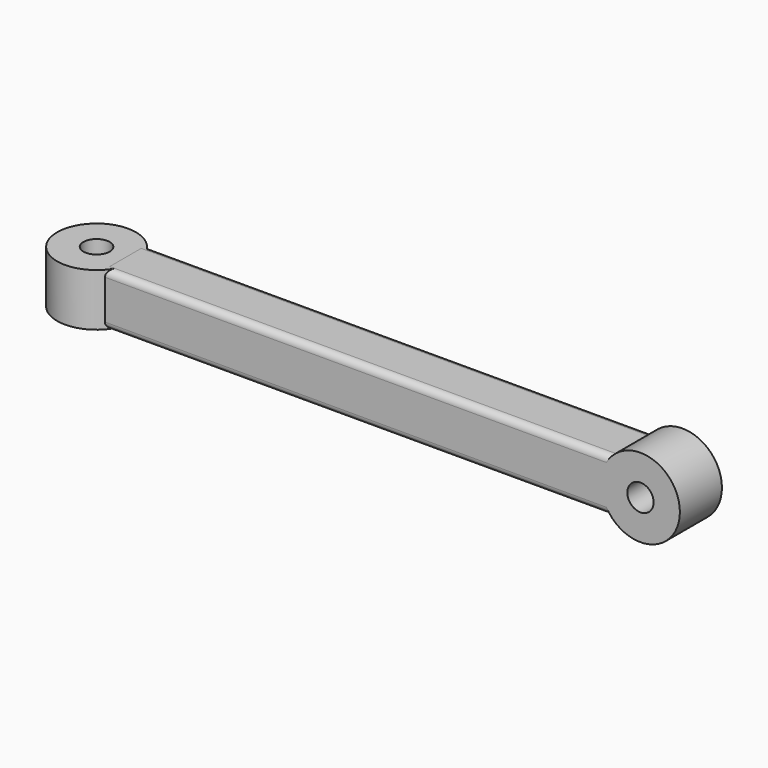
from build123d import *

# Parameters (mm, degrees)
SKETCH_R      = 3
SKETCH_R_2    = 1
PAD_DEPTH     = 4
SKETCH001_W   = 38.6
SKETCH001_H   = 4
PAD001_DEPTH  = 2
FILLET_R      = 0.5
FILLET001_R   = 0.5
FILLET002_R   = 0.5
FILLET003_R   = 0.5
SKETCH002_R   = 3
SKETCH002_R_2 = 1
PAD002_DEPTH  = 4


with BuildPart() as pad:
    # Sketch → Pad (new body)
    with BuildSketch(Plane.XY):
        Circle(SKETCH_R)
        Circle(SKETCH_R_2, mode=Mode.SUBTRACT)
    extrude(amount=PAD_DEPTH)


with BuildPart() as pad002:
    # Sketch001 → Pad001 (new body, symmetric)
    with BuildSketch(Plane.XZ):
        with Locations((21.5, 2)):
            Rectangle(SKETCH001_W, SKETCH001_H)
    extrude(amount=PAD001_DEPTH, both=True)

    # Fillet
    fillet_edges = [pad002.edges().sort_by_distance(p)[0] for p in [
        (21.5, -2, 4),
    ]]
    fillet(fillet_edges, radius=FILLET_R)

    # Fillet001
    fillet001_edges = [pad002.edges().sort_by_distance(p)[0] for p in [
        (21.5, 2, 4),
    ]]
    fillet(fillet001_edges, radius=FILLET001_R)

    # Fillet002
    fillet002_edges = [pad002.edges().sort_by_distance(p)[0] for p in [
        (21.5, -2, 0),
    ]]
    fillet(fillet002_edges, radius=FILLET002_R)

    # Fillet003
    fillet003_edges = [pad002.edges().sort_by_distance(p)[0] for p in [
        (21.5, 2, 0),
    ]]
    fillet(fillet003_edges, radius=FILLET003_R)

    # Sketch002 → Pad002 (new body)
    with BuildSketch(Plane(origin=(0, 2, 0), x_dir=(1, 0, 0), z_dir=(0, 1, 0))):
        with Locations((43, -2)):
            Circle(SKETCH002_R)
        with Locations((43, -2)):
            Circle(SKETCH002_R_2, mode=Mode.SUBTRACT)
    extrude(amount=-PAD002_DEPTH)


solid = Compound([pad.part, pad002.part])
